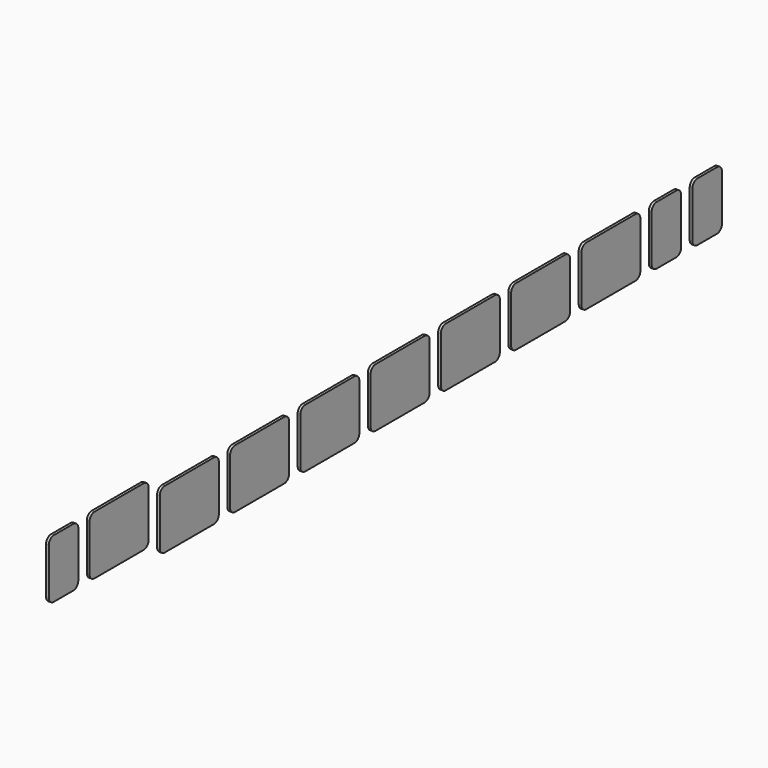
from build123d import *

# Parameters (mm, degrees)
F1_DEPTH = 1


with BuildPart() as f1:
    # F0 (on Right) → F1 (new body)
    with BuildSketch(Plane.YZ):
        with BuildLine():
            Line((80.454406, -13.617133), (80.454406, 3.382867))
            ThreePointArc((80.454406, 3.382867), (79.795396, 4.973857), (78.204406, 5.632867))
            Line((78.204406, 5.632867), (55.704406, 5.632867))
            ThreePointArc((55.704406, 5.632867), (54.113415, 4.973857), (53.454406, 3.382867))
            Line((53.454406, 3.382867), (53.454406, -13.617133))
            ThreePointArc((53.454406, -13.617133), (54.113415, -15.208123), (55.704406, -15.867133))
            Line((55.704406, -15.867133), (78.204406, -15.867133))
            ThreePointArc((78.204406, -15.867133), (79.795396, -15.208123), (80.454406, -13.617133))
        make_face()
        with BuildLine():
            Line((-16.046594, -13.617133), (-16.046594, 3.382867))
            ThreePointArc((-16.046594, 3.382867), (-16.705604, 4.973857), (-18.296594, 5.632867))
            Line((-18.296594, 5.632867), (-40.796594, 5.632867))
            ThreePointArc((-40.796594, 5.632867), (-42.387585, 4.973857), (-43.046594, 3.382867))
            Line((-43.046594, 3.382867), (-43.046594, -13.617133))
            ThreePointArc((-43.046594, -13.617133), (-42.387585, -15.208123), (-40.796594, -15.867133))
            Line((-40.796594, -15.867133), (-18.296594, -15.867133))
            ThreePointArc((-18.296594, -15.867133), (-16.705604, -15.208123), (-16.046594, -13.617133))
        make_face()
        with BuildLine():
            Line((-146.960594, 10.382867), (-155.960594, 10.382867))
            ThreePointArc((-155.960594, 10.382867), (-157.551585, 9.723857), (-158.210594, 8.132867))
            Line((-158.210594, 8.132867), (-158.210594, -8.867133))
            ThreePointArc((-158.210594, -8.867133), (-157.551585, -10.458123), (-155.960594, -11.117133))
            Line((-155.960594, -11.117133), (-146.960594, -11.117133))
            ThreePointArc((-146.960594, -11.117133), (-145.369604, -10.458123), (-144.710594, -8.867133))
            Line((-144.710594, -8.867133), (-144.710594, 8.132867))
            ThreePointArc((-144.710594, 8.132867), (-145.369604, 9.723857), (-146.960594, 10.382867))
        make_face()
        with BuildLine():
            Line((-107.380594, 3.382867), (-107.380594, -13.617133))
            ThreePointArc((-107.380594, -13.617133), (-106.721585, -15.208123), (-105.130594, -15.867133))
            Line((-105.130594, -15.867133), (-82.630594, -15.867133))
            ThreePointArc((-82.630594, -15.867133), (-81.039604, -15.208123), (-80.380594, -13.617133))
            Line((-80.380594, -13.617133), (-80.380594, 3.382867))
            ThreePointArc((-80.380594, 3.382867), (-81.039604, 4.973857), (-82.630594, 5.632867))
            Line((-82.630594, 5.632867), (-105.130594, 5.632867))
            ThreePointArc((-105.130594, 5.632867), (-106.721585, 4.973857), (-107.380594, 3.382867))
        make_face()
        with BuildLine():
            Line((48.287406, -13.617133), (48.287406, 3.382867))
            ThreePointArc((48.287406, 3.382867), (47.628396, 4.973857), (46.037406, 5.632867))
            Line((46.037406, 5.632867), (23.537406, 5.632867))
            ThreePointArc((23.537406, 5.632867), (21.946415, 4.973857), (21.287406, 3.382867))
            Line((21.287406, 3.382867), (21.287406, -13.617133))
            ThreePointArc((21.287406, -13.617133), (21.946415, -15.208123), (23.537406, -15.867133))
            Line((23.537406, -15.867133), (46.037406, -15.867133))
            ThreePointArc((46.037406, -15.867133), (47.628396, -15.208123), (48.287406, -13.617133))
        make_face()
        with BuildLine():
            Line((-50.463594, 5.632867), (-72.963594, 5.632867))
            ThreePointArc((-72.963594, 5.632867), (-74.554585, 4.973857), (-75.213594, 3.382867))
            Line((-75.213594, 3.382867), (-75.213594, -13.617133))
            ThreePointArc((-75.213594, -13.617133), (-74.554585, -15.208123), (-72.963594, -15.867133))
            Line((-72.963594, -15.867133), (-50.463594, -15.867133))
            ThreePointArc((-50.463594, -15.867133), (-48.872604, -15.208123), (-48.213594, -13.617133))
            Line((-48.213594, -13.617133), (-48.213594, 3.382867))
            ThreePointArc((-48.213594, 3.382867), (-48.872604, 4.973857), (-50.463594, 5.632867))
        make_face()
        with BuildLine():
            Line((13.870406, 5.632867), (-8.629594, 5.632867))
            ThreePointArc((-8.629594, 5.632867), (-10.220585, 4.973857), (-10.879594, 3.382867))
            Line((-10.879594, 3.382867), (-10.879594, -13.617133))
            ThreePointArc((-10.879594, -13.617133), (-10.220585, -15.208123), (-8.629594, -15.867133))
            Line((-8.629594, -15.867133), (13.870406, -15.867133))
            ThreePointArc((13.870406, -15.867133), (15.461396, -15.208123), (16.120406, -13.617133))
            Line((16.120406, -13.617133), (16.120406, 3.382867))
            ThreePointArc((16.120406, 3.382867), (15.461396, 4.973857), (13.870406, 5.632867))
        make_face()
        with BuildLine():
            Line((-112.543594, -8.867133), (-112.543594, 8.132867))
            ThreePointArc((-112.543594, 8.132867), (-113.202604, 9.723857), (-114.793594, 10.382867))
            Line((-114.793594, 10.382867), (-137.293594, 10.382867))
            ThreePointArc((-137.293594, 10.382867), (-138.884585, 9.723857), (-139.543594, 8.132867))
            Line((-139.543594, 8.132867), (-139.543594, -8.867133))
            ThreePointArc((-139.543594, -8.867133), (-138.884585, -10.458123), (-137.293594, -11.117133))
            Line((-137.293594, -11.117133), (-114.793594, -11.117133))
            ThreePointArc((-114.793594, -11.117133), (-113.202604, -10.458123), (-112.543594, -8.867133))
        make_face()
        with BuildLine():
            Line((147.705406, 5.632867), (138.705406, 5.632867))
            ThreePointArc((138.705406, 5.632867), (137.114415, 4.973857), (136.455406, 3.382867))
            Line((136.455406, 3.382867), (136.455406, -13.617133))
            ThreePointArc((136.455406, -13.617133), (137.114415, -15.208123), (138.705406, -15.867133))
            Line((138.705406, -15.867133), (147.705406, -15.867133))
            ThreePointArc((147.705406, -15.867133), (149.296396, -15.208123), (149.955406, -13.617133))
            Line((149.955406, -13.617133), (149.955406, 3.382867))
            ThreePointArc((149.955406, 3.382867), (149.296396, 4.973857), (147.705406, 5.632867))
        make_face()
        with BuildLine():
            Line((112.621406, -13.617133), (112.621406, 3.382867))
            ThreePointArc((112.621406, 3.382867), (111.962396, 4.973857), (110.371406, 5.632867))
            Line((110.371406, 5.632867), (87.871406, 5.632867))
            ThreePointArc((87.871406, 5.632867), (86.280415, 4.973857), (85.621406, 3.382867))
            Line((85.621406, 3.382867), (85.621406, -13.617133))
            ThreePointArc((85.621406, -13.617133), (86.280415, -15.208123), (87.871406, -15.867133))
            Line((87.871406, -15.867133), (110.371406, -15.867133))
            ThreePointArc((110.371406, -15.867133), (111.962396, -15.208123), (112.621406, -13.617133))
        make_face()
        with BuildLine():
            Line((131.288406, -13.617133), (131.288406, 3.382867))
            ThreePointArc((131.288406, 3.382867), (130.629396, 4.973857), (129.038406, 5.632867))
            Line((129.038406, 5.632867), (120.038406, 5.632867))
            ThreePointArc((120.038406, 5.632867), (118.447415, 4.973857), (117.788406, 3.382867))
            Line((117.788406, 3.382867), (117.788406, -13.617133))
            ThreePointArc((117.788406, -13.617133), (118.447415, -15.208123), (120.038406, -15.867133))
            Line((120.038406, -15.867133), (129.038406, -15.867133))
            ThreePointArc((129.038406, -15.867133), (130.629396, -15.208123), (131.288406, -13.617133))
        make_face()
    extrude(amount=F1_DEPTH)


solid = f1.part
